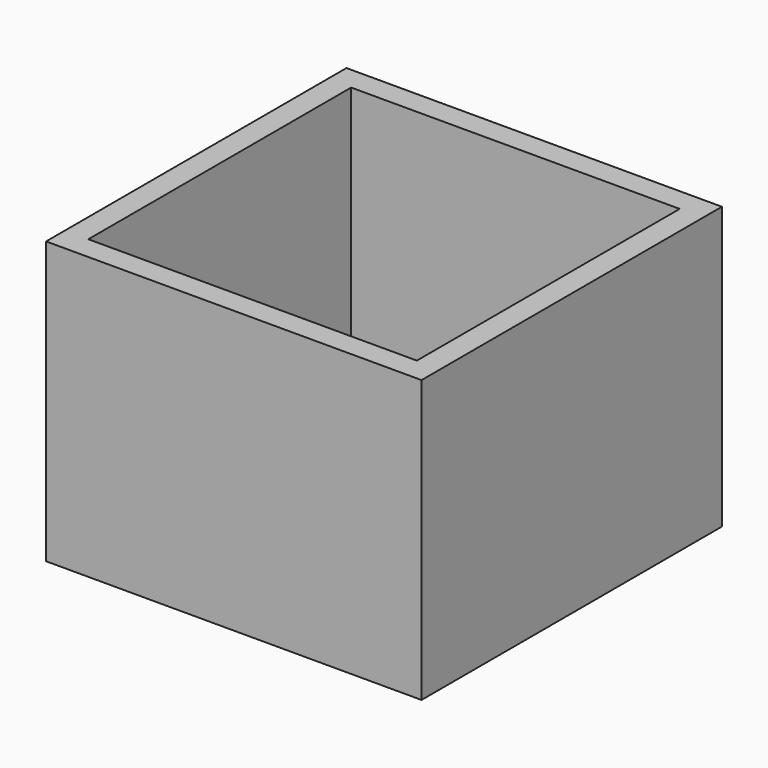
from build123d import *

# Parameters (mm, degrees)
F1_DEPTH = 76.2


with BuildPart() as f1:
    # F0 (on Top) → F1 (new body)
    with BuildSketch(Plane.XY):
        Polygon((50.8, -50.8), (50.8, 50.8), (0, 50.8), (-50.8, 50.8), (-50.8, -50.8), align=None)
        Polygon((-44.45, 44.45), (0, 44.45), (44.45, 44.45), (44.45, 0), (44.45, -44.45), (0, -44.45), (-44.45, -44.45), (-44.45, 0), align=None, mode=Mode.SUBTRACT)
    extrude(amount=F1_DEPTH)


solid = f1.part
